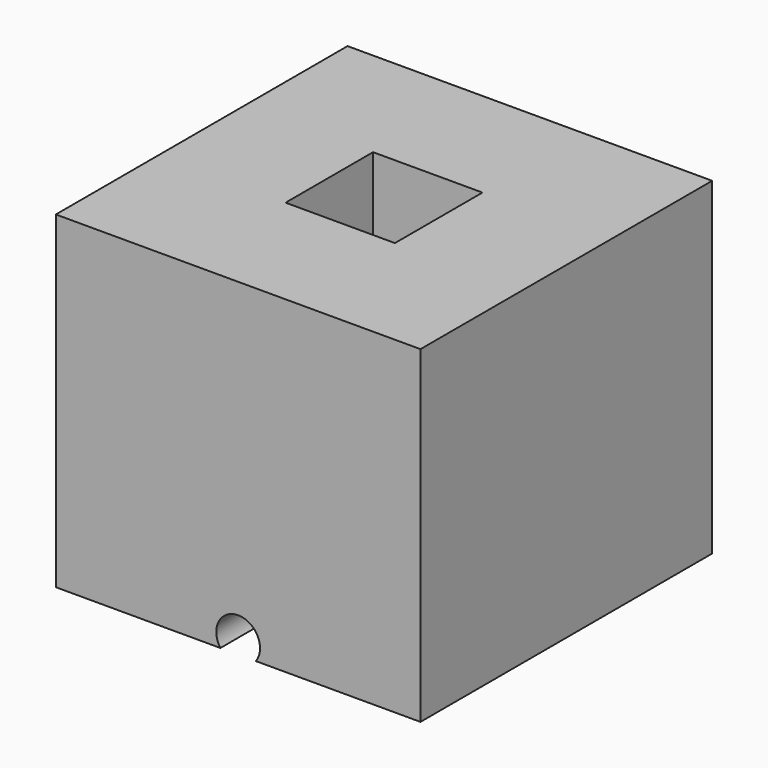
from build123d import *

# Parameters (mm, degrees)
F0_W     = 50
F0_H     = 50
F0_W_2   = 15
F0_H_2   = 15
F1_DEPTH = 45
F3_DEPTH = 25


with BuildPart() as f1:
    # F0 (on Top) → F1 (new body)
    with BuildSketch(Plane.XY):
        Rectangle(F0_W, F0_H)
        Rectangle(F0_W_2, F0_H_2, mode=Mode.SUBTRACT)
    extrude(amount=F1_DEPTH)

    # F2 (on face) → F3 (cut)
    with BuildSketch(Plane.XZ.offset(25)):
        with BuildLine():
            ThreePointArc((2.4366985862, 0), (2.8557044454, 0.8307872277), (3, 1.75))
            ThreePointArc((3, 1.75), (-0.9192127723, 4.6057044454), (-2.4366985862, 0))
            Line((-2.4366985862, 0), (2.4366985862, 0))
        make_face()
    extrude(amount=-F3_DEPTH, mode=Mode.SUBTRACT)


solid = f1.part
